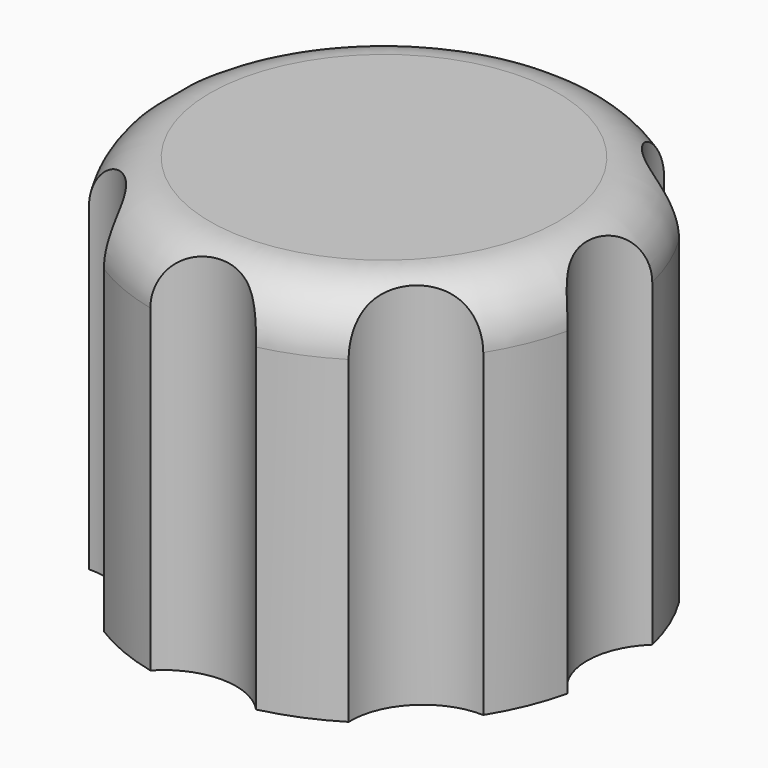
from build123d import *

# Parameters (mm, degrees)
SKETCH_R           = 8
PAD_DEPTH          = 13
SKETCH001_R        = 3.05
PAD001_DEPTH       = 6
FILLET_R           = 2
SKETCH002_R        = 2.5
POCKET_DEPTH       = 52.192953
POCKET_DEPTH_BACK  = 65.192953
POLARPATTERN_COUNT = 8


with BuildPart() as part:
    # Sketch → Pad (new body)
    with BuildSketch(Plane.XY):
        Circle(SKETCH_R)
        with BuildLine():
            ThreePointArc((1.456056, 2.68), (-3.05, 0), (1.456056, -2.68))
            Line((1.456056, 2.68), (1.456056, -2.68))
        make_face(mode=Mode.SUBTRACT)
    extrude(amount=PAD_DEPTH)

    # Sketch001 (on Face5 of Pad) → Pad001 (join)
    with BuildSketch(Plane.XY.offset(13)):
        Circle(SKETCH001_R)
    extrude(amount=-PAD001_DEPTH)

    # Fillet
    fillet_edges = [part.edges().sort_by_distance(p)[0] for p in [
        (-8, 0, 13),
    ]]
    fillet(fillet_edges, radius=FILLET_R)

    # Sketch002 → Pocket (cut, two sides)
    with BuildSketch(Plane.XY) as pocket_sk:
        with Locations((0, 9.5)):
            Circle(SKETCH002_R)
    pocket = extrude(amount=-POCKET_DEPTH, mode=Mode.SUBTRACT) + extrude(pocket_sk.sketch, amount=POCKET_DEPTH_BACK, mode=Mode.SUBTRACT)

    # PolarPattern: Pocket ×8 about axis
    polarpattern_axis = Axis((0, 0, 0), (0, 0, 1))
    for i in range(1, POLARPATTERN_COUNT):
        add(pocket.rotate(polarpattern_axis, i * 360 / POLARPATTERN_COUNT), mode=Mode.SUBTRACT)


solid = part.part
